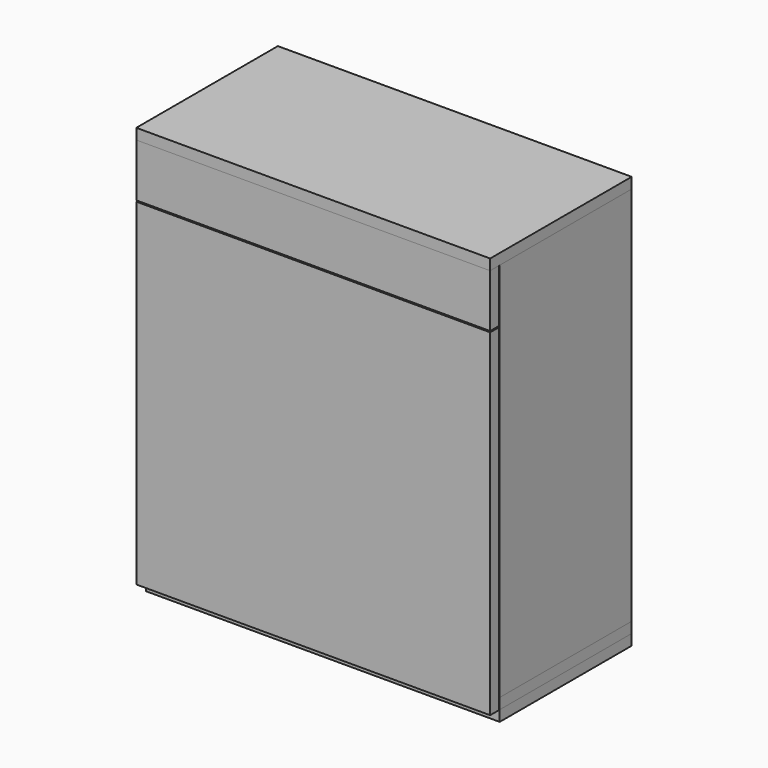
from build123d import *

# Parameters (mm, degrees)
F0_W      = 600
F0_H      = 279.74
F1_DEPTH  = 18.26
F3_DEPTH  = 645.22
F2_W      = 563.48
F2_H      = 18.26
F4_DEPTH  = 645.22
F5_DEPTH  = 645.22
F6_W      = 600
F6_H      = 300
F7_DEPTH  = 18.26
F8_DEPTH  = 18.26
F10_DEPTH = 25
F11_W     = 600
F11_H     = 90
F12_DEPTH = 18.26
F13_W     = 600
F13_H     = 571.48
F14_DEPTH = 18.26


with BuildPart() as f1:
    # F0 (on Top) → F1 (new body)
    with BuildSketch(Plane.XY):
        Rectangle(F0_W, F0_H)
    extrude(amount=F1_DEPTH)


with BuildPart() as f3:
    # F2 (on face) → F3 (new body)
    with BuildSketch(Plane.XY.offset(18.26)):
        Polygon((281.74, 121.61), (281.74, -139.87), (300, -139.87), (300, 139.87), (281.74, 139.87), align=None)
    extrude(amount=F3_DEPTH)


with BuildPart() as f4:
    # F2 (on face) → F4 (new body, through all)
    with BuildSketch(Plane.XY.offset(18.26)):
        with Locations((0, 130.74)):
            Rectangle(F2_W, F2_H)
    extrude(amount=F4_DEPTH)

    # F9 (on face) → F10 (cut)
    with BuildSketch(Plane(origin=(0, 139.87, 0), x_dir=(-1, 0, 0), z_dir=(0, 1, 0))):
        with BuildLine():
            ThreePointArc((126.74, 573.48), (144.4176695297, 580.8023304703), (151.74, 598.48))
            ThreePointArc((151.74, 598.48), (144.4176695297, 616.1576695297), (126.74, 623.48))
            ThreePointArc((126.74, 623.48), (101.74, 598.48), (126.74, 573.48))
        make_face()
        with BuildLine():
            ThreePointArc((126.74, 623.48), (144.4176695297, 616.1576695297), (151.74, 598.48))
            ThreePointArc((151.74, 598.48), (144.4176695297, 580.8023304703), (126.74, 573.48))
            Line((126.74, 573.48), (206.74, 573.48))
            ThreePointArc((206.74, 573.48), (181.74, 598.48), (206.74, 623.48))
            Line((206.74, 623.48), (126.74, 623.48))
        make_face()
        with BuildLine():
            ThreePointArc((231.74, 598.48), (224.4176695297, 616.1576695297), (206.74, 623.48))
            ThreePointArc((206.74, 623.48), (181.74, 598.48), (206.74, 573.48))
            ThreePointArc((206.74, 573.48), (224.4176695297, 580.8023304703), (231.74, 598.48))
        make_face()
        with BuildLine():
            ThreePointArc((-126.74, 573.48), (-109.0623304703, 580.8023304703), (-101.74, 598.48))
            ThreePointArc((-101.74, 598.48), (-109.0623304703, 616.1576695297), (-126.74, 623.48))
            ThreePointArc((-126.74, 623.48), (-151.74, 598.48), (-126.74, 573.48))
        make_face()
        with BuildLine():
            ThreePointArc((-126.74, 573.48), (-151.74, 598.48), (-126.74, 623.48))
            Line((-126.74, 623.48), (-206.74, 623.48))
            ThreePointArc((-206.74, 623.48), (-189.0623304703, 616.1576695297), (-181.74, 598.48))
            ThreePointArc((-181.74, 598.48), (-189.0623304703, 580.8023304703), (-206.74, 573.48))
            Line((-206.74, 573.48), (-126.74, 573.48))
        make_face()
        with BuildLine():
            ThreePointArc((-181.74, 598.48), (-189.0623304703, 616.1576695297), (-206.74, 623.48))
            ThreePointArc((-206.74, 623.48), (-231.74, 598.48), (-206.74, 573.48))
            ThreePointArc((-206.74, 573.48), (-189.0623304703, 580.8023304703), (-181.74, 598.48))
        make_face()
        with BuildLine():
            ThreePointArc((40, 38.26), (57.6776695297, 45.5823304703), (65, 63.26))
            ThreePointArc((65, 63.26), (57.6776695297, 80.9376695297), (40, 88.26))
            ThreePointArc((40, 88.26), (15, 63.26), (40, 38.26))
        make_face()
        with BuildLine():
            ThreePointArc((40, 38.26), (15, 63.26), (40, 88.26))
            Line((40, 88.26), (-40, 88.26))
            ThreePointArc((-40, 88.26), (-22.3223304703, 80.9376695297), (-15, 63.26))
            ThreePointArc((-15, 63.26), (-22.3223304703, 45.5823304703), (-40, 38.26))
            Line((-40, 38.26), (40, 38.26))
        make_face()
        with BuildLine():
            ThreePointArc((-15, 63.26), (-22.3223304703, 80.9376695297), (-40, 88.26))
            ThreePointArc((-40, 88.26), (-65, 63.26), (-40, 38.26))
            ThreePointArc((-40, 38.26), (-22.3223304703, 45.5823304703), (-15, 63.26))
        make_face()
    extrude(amount=-F10_DEPTH, mode=Mode.SUBTRACT)


with BuildPart() as f5:
    # F2 (on face) → F5 (new body, through all)
    with BuildSketch(Plane.XY.offset(18.26)):
        Polygon((-300, 139.87), (-300, -139.87), (-281.74, -139.87), (-281.74, 121.61), (-281.74, 139.87), align=None)
    extrude(amount=F5_DEPTH)


with BuildPart() as f7:
    # F6 (on face) → F7 (new body)
    with BuildSketch(Plane.XY.offset(663.48)):
        with Locations((0, -10.13)):
            Rectangle(F6_W, F6_H)
    extrude(amount=F7_DEPTH)


with BuildPart() as f8:
    # F8 (new): a face of the model
    f8_faces = [f1.part.faces().sort_by_distance(p)[0] for p in [
        (0, 0, 0),
    ]]
    extrude(f8_faces, amount=F8_DEPTH)


with BuildPart() as f12:
    # F11 (on face) → F12 (new body)
    with BuildSketch(Plane.XZ.offset(160.13)):
        with Locations((0, 618.48)):
            Rectangle(F11_W, F11_H)
    extrude(amount=-F12_DEPTH)


with BuildPart() as f14:
    # F13 (on face) → F14 (new body)
    with BuildSketch(Plane.XZ.offset(160.13)):
        with Locations((0, 285.74)):
            Rectangle(F13_W, F13_H)
    extrude(amount=-F14_DEPTH)


solid = Compound([f1.part, f3.part, f4.part, f5.part, f7.part, f8.part, f12.part, f14.part])
